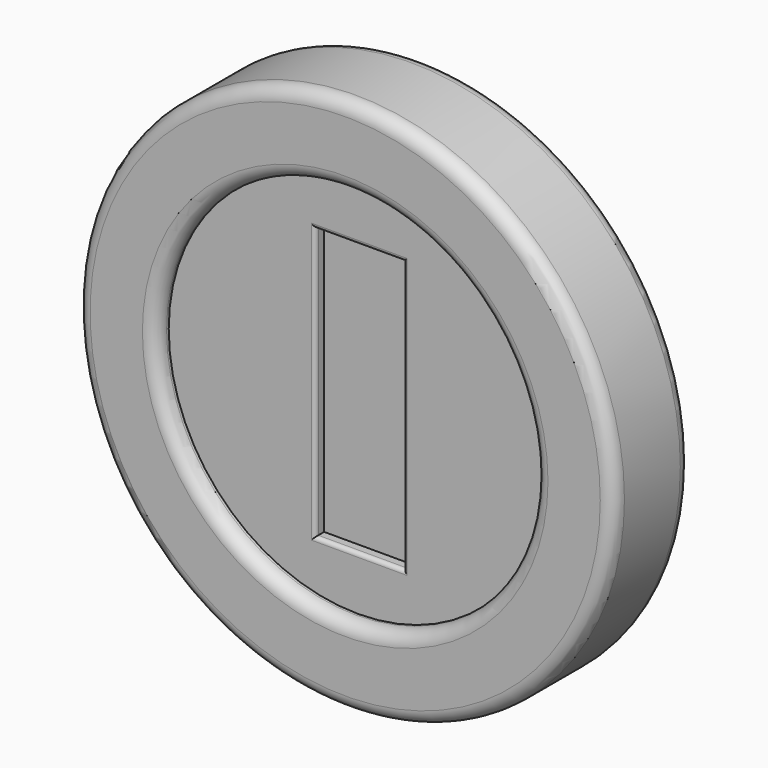
from build123d import *

# Parameters (mm, degrees)
F0_R        = 25.4
F0_R_2      = 17.914362
F1_DEPTH    = 4.572
F1_FACE_R   = 25.4
F1_FACE_R_2 = 17.914362
F2_DEPTH    = 4.572
F0_W        = 8.337361
F0_H        = 25.668724
F3_DEPTH    = 3.048
F4_DEPTH    = 3.048
F5_DEPTH    = 1.9812
F6_DEPTH    = 1.9812
F7_R        = 1.27
F8_R        = 0.367926


with BuildPart() as f1:
    # F0 (on Front) → F1 (new body)
    with BuildSketch(Plane.XZ):
        Circle(F0_R)
        Circle(F0_R_2, mode=Mode.SUBTRACT)
    extrude(amount=F1_DEPTH)

    # F1_face (on face) → F2 (join)
    with BuildSketch(Plane(origin=(0, 0, 0), x_dir=(1, 0, 0), z_dir=(0, 1, 0))):
        Circle(F1_FACE_R)
        Circle(F1_FACE_R_2, mode=Mode.SUBTRACT)
    extrude(amount=F2_DEPTH)

    # F0 (on Front) → F3 (join)
    with BuildSketch(Plane.XZ):
        Circle(F0_R_2)
        with Locations((0.105467, 0)):
            Rectangle(F0_W, F0_H, mode=Mode.SUBTRACT)
    extrude(amount=F3_DEPTH)

    # F0 (on Front) → F4 (join)
    with BuildSketch(Plane.XZ):
        Circle(F0_R_2)
        with Locations((0.105467, 0)):
            Rectangle(F0_W, F0_H, mode=Mode.SUBTRACT)
    extrude(amount=-F4_DEPTH)

    # F0 (on Front) → F5 (join)
    with BuildSketch(Plane.XZ):
        with Locations((0.105467, 0)):
            Rectangle(F0_W, F0_H)
    extrude(amount=F5_DEPTH)

    # F0 (on Front) → F6 (join)
    with BuildSketch(Plane.XZ):
        with Locations((0.105467, 0)):
            Rectangle(F0_W, F0_H)
    extrude(amount=-F6_DEPTH)

    # F7
    f7_edges = [f1.edges().sort_by_distance(p)[0] for p in [
        (-17.914362, 4.572, 0),
        (-25.4, 4.572, 0),
        (-25.4, -4.572, 0),
        (-17.914362, -4.572, 0),
    ]]
    fillet(f7_edges, radius=F7_R)

    # F8
    f8_edges = [f1.edges().sort_by_distance(p)[0] for p in [
        (0.105468, 3.048, -12.834362),
        (4.274148, 3.048, 0),
        (0.105468, 3.048, 12.834362),
        (-4.063213, 3.048, 0),
        (-4.063213, -3.048, 0),
        (0.105468, -3.048, 12.834362),
        (4.274148, -3.048, 0),
        (0.105468, -3.048, -12.834362),
    ]]
    fillet(f8_edges, radius=F8_R)


solid = f1.part
